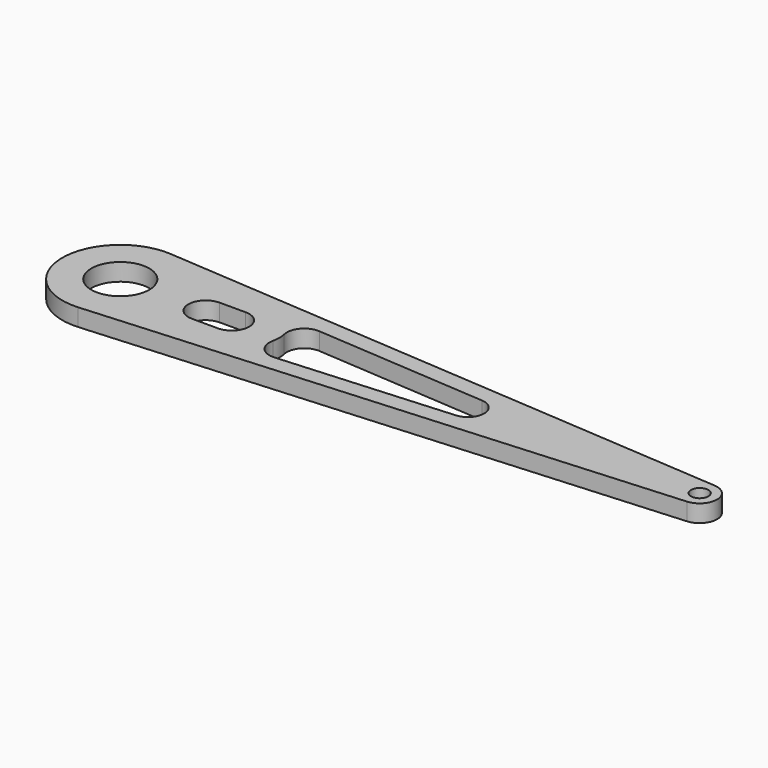
from build123d import *

# Parameters (mm, degrees)
F0_R     = 5
F0_R_2   = 1.5
F1_DEPTH = 1.5


with BuildPart() as f1:
    # F0 (on Top) → F1 (new body, symmetric)
    with BuildSketch(Plane.XY):
        with BuildLine():
            Line((50.21, 2.992641), (-49.3, 9.97547))
            ThreePointArc((-49.3, 9.97547), (-60, 0), (-49.3, -9.97547))
            Line((-49.3, -9.97547), (50.21, -2.992641))
            ThreePointArc((50.21, -2.992641), (53, 0), (50.21, 2.992641))
        make_face()
        with Locations((-50, 0)):
            Circle(F0_R, mode=Mode.SUBTRACT)
        with BuildLine():
            ThreePointArc((-35.25, -3), (-38.25, 0), (-35.25, 3))
            Line((-35.25, 3), (-30.75, 3))
            ThreePointArc((-30.75, 3), (-27.75, 0), (-30.75, -3))
            Line((-30.75, -3), (-35.25, -3))
        make_face(mode=Mode.SUBTRACT)
        with BuildLine():
            ThreePointArc((-19.543213, -4.879996), (-22.032333, -3.838152), (-22.677606, -1.21808))
            ThreePointArc((-22.677606, -1.21808), (-22.54, 0), (-22.677606, 1.21808))
            ThreePointArc((-22.677606, 1.21808), (-22.032333, 3.838152), (-19.543213, 4.879996))
            Line((-19.543213, 4.879996), (10.196, 2.793132))
            ThreePointArc((10.196, 2.793132), (12.8, 0), (10.196, -2.793132))
            Line((10.196, -2.793132), (-19.543213, -4.879996))
        make_face(mode=Mode.SUBTRACT)
        with Locations((50, 0)):
            Circle(F0_R_2, mode=Mode.SUBTRACT)
    extrude(amount=F1_DEPTH, both=True)


solid = f1.part
